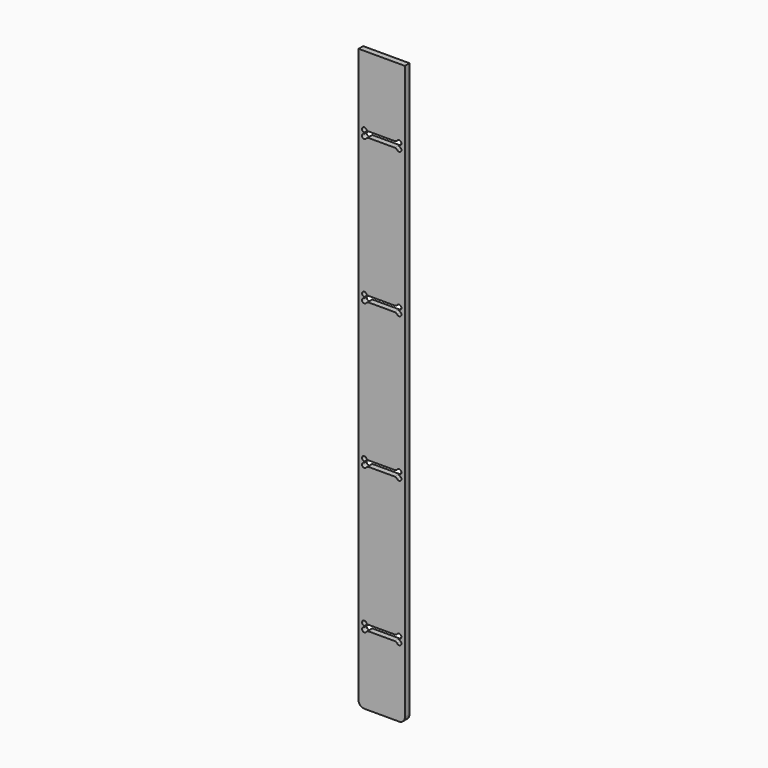
from build123d import *

# Parameters (mm, degrees)
F1_W     = 80
F1_H     = 1000
F2_DEPTH = 10
F3_R     = 10
F5_DEPTH = 10.001


with BuildPart() as f2:
    # F1 (on Front) → F2 (new body)
    with BuildSketch(Plane.XZ):
        Rectangle(F1_W, F1_H)
    extrude(amount=F2_DEPTH)

    # F3
    f3_edges = [f2.edges().sort_by_distance(p)[0] for p in [
        (40, -5, -500),
        (-40, -5, -500),
    ]]
    fillet(f3_edges, radius=F3_R)

    # F4 (on face) → F5 (cut, through all)
    with BuildSketch(Plane.XZ.offset(10)):
        with BuildLine():
            Line((-22.5166852265, -380), (22.5166852265, -380))
            ThreePointArc((22.5166852265, -380), (24.8737078304, -380.5904144816), (26.6740823229, -382.2222222222))
            ThreePointArc((26.6740823229, -382.2222222222), (33.5276684148, -381.8856180832), (30, -376))
            Line((30, -376), (30, -374))
            ThreePointArc((30, -374), (33.5276684148, -368.1143819168), (26.6740823229, -367.7777777778))
            ThreePointArc((26.6740823229, -367.7777777778), (24.8737078304, -369.4095855184), (22.5166852265, -370))
            Line((22.5166852265, -370), (-22.5166852265, -370))
            ThreePointArc((-22.5166852265, -370), (-24.8737078304, -369.4095855184), (-26.6740823229, -367.7777777778))
            ThreePointArc((-26.6740823229, -367.7777777778), (-33.5276684148, -368.1143819168), (-30, -374))
            Line((-30, -374), (-30, -376))
            ThreePointArc((-30, -376), (-33.5276684148, -381.8856180832), (-26.6740823229, -382.2222222222))
            ThreePointArc((-26.6740823229, -382.2222222222), (-24.8737078304, -380.5904144816), (-22.5166852265, -380))
        make_face()
        with BuildLine():
            Line((30, -126), (30, -124))
            ThreePointArc((30, -124), (33.5276684148, -118.1143819168), (26.6740823229, -117.7777777778))
            ThreePointArc((26.6740823229, -117.7777777778), (24.8737078304, -119.4095855184), (22.5166852265, -120))
            Line((22.5166852265, -120), (-22.5166852265, -120))
            ThreePointArc((-22.5166852265, -120), (-24.8737078304, -119.4095855184), (-26.6740823229, -117.7777777778))
            ThreePointArc((-26.6740823229, -117.7777777778), (-33.5276684148, -118.1143819168), (-30, -124))
            Line((-30, -124), (-30, -126))
            ThreePointArc((-30, -126), (-33.5276684148, -131.8856180832), (-26.6740823229, -132.2222222222))
            ThreePointArc((-26.6740823229, -132.2222222222), (-24.8737078304, -130.5904144816), (-22.5166852265, -130))
            Line((-22.5166852265, -130), (22.5166852265, -130))
            ThreePointArc((22.5166852265, -130), (24.8737078304, -130.5904144816), (26.6740823229, -132.2222222222))
            ThreePointArc((26.6740823229, -132.2222222222), (33.5276684148, -131.8856180832), (30, -126))
        make_face()
        with BuildLine():
            Line((30, 124), (30, 126))
            ThreePointArc((30, 126), (33.5276684148, 131.8856180832), (26.6740823229, 132.2222222222))
            ThreePointArc((26.6740823229, 132.2222222222), (24.8737078304, 130.5904144816), (22.5166852265, 130))
            Line((22.5166852265, 130), (-22.5166852265, 130))
            ThreePointArc((-22.5166852265, 130), (-24.8737078304, 130.5904144816), (-26.6740823229, 132.2222222222))
            ThreePointArc((-26.6740823229, 132.2222222222), (-33.5276684148, 131.8856180832), (-30, 126))
            Line((-30, 126), (-30, 124))
            ThreePointArc((-30, 124), (-33.5276684148, 118.1143819168), (-26.6740823229, 117.7777777778))
            ThreePointArc((-26.6740823229, 117.7777777778), (-24.8737078304, 119.4095855184), (-22.5166852265, 120))
            Line((-22.5166852265, 120), (22.5166852265, 120))
            ThreePointArc((22.5166852265, 120), (24.8737078304, 119.4095855184), (26.6740823229, 117.7777777778))
            ThreePointArc((26.6740823229, 117.7777777778), (33.5276684148, 118.1143819168), (30, 124))
        make_face()
        with BuildLine():
            Line((30, 374), (30, 376))
            ThreePointArc((30, 376), (33.5276684148, 381.8856180832), (26.6740823229, 382.2222222222))
            ThreePointArc((26.6740823229, 382.2222222222), (24.8737078304, 380.5904144816), (22.5166852265, 380))
            Line((22.5166852265, 380), (-22.5166852265, 380))
            ThreePointArc((-22.5166852265, 380), (-24.8737078304, 380.5904144816), (-26.6740823229, 382.2222222222))
            ThreePointArc((-26.6740823229, 382.2222222222), (-33.5276684148, 381.8856180832), (-30, 376))
            Line((-30, 376), (-30, 374))
            ThreePointArc((-30, 374), (-33.5276684148, 368.1143819168), (-26.6740823229, 367.7777777778))
            ThreePointArc((-26.6740823229, 367.7777777778), (-24.8737078304, 369.4095855184), (-22.5166852265, 370))
            Line((-22.5166852265, 370), (22.5166852265, 370))
            ThreePointArc((22.5166852265, 370), (24.8737078304, 369.4095855184), (26.6740823229, 367.7777777778))
            ThreePointArc((26.6740823229, 367.7777777778), (33.5276684148, 368.1143819168), (30, 374))
        make_face()
    extrude(amount=-F5_DEPTH, mode=Mode.SUBTRACT)


solid = f2.part
